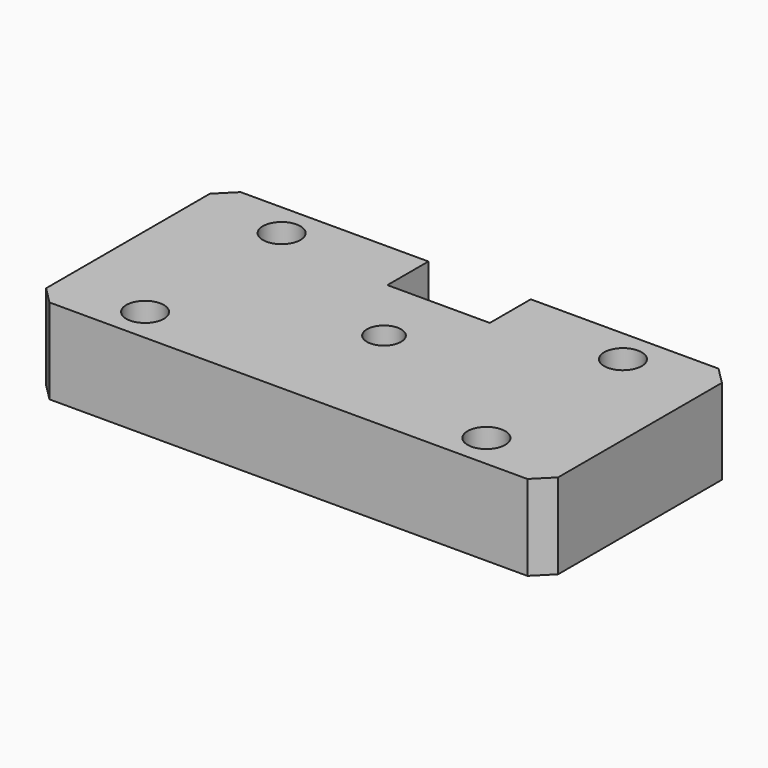
from build123d import *

# Parameters (mm, degrees)
F0_W           = 150
F0_H           = 70
F1_DEPTH       = 25
F3_D           = 11
F3_CBORE_D     = 17.25
F3_CBORE_DEPTH = 10
F4_SIZE        = 5
F5_SIZE        = 5
F6_W           = 30
F6_H           = 25
F7_DEPTH       = 25
F9_D           = 10


with BuildPart() as f1:
    # F0 (on Top) → F1 (new body)
    with BuildSketch(Plane.XY):
        Rectangle(F0_W, F0_H)
    extrude(amount=F1_DEPTH)

    # F3 (through all)
    with Locations(Plane(origin=(0, 0, 0), x_dir=(1, 0, 0), z_dir=(0, 0, -1))):
        with Locations((-50, -25), (-50, 25), (50, 25), (50, -25)):
            CounterBoreHole(F3_D / 2, F3_CBORE_D / 2, F3_CBORE_DEPTH)

    # F4
    f4_edges = [f1.edges().sort_by_distance(p)[0] for p in [
        (-75, 35, 12.5),
        (-75, -35, 12.5),
    ]]
    chamfer(f4_edges, length=F4_SIZE)

    # F5
    f5_edges = [f1.edges().sort_by_distance(p)[0] for p in [
        (75, 35, 12.5),
        (75, -35, 12.5),
    ]]
    chamfer(f5_edges, length=F5_SIZE)

    # F6 (on face) → F7 (cut)
    with BuildSketch(Plane(origin=(0, 0, 0), x_dir=(1, 0, 0), z_dir=(0, 0, -1))):
        with Locations((0, -32.5)):
            Rectangle(F6_W, F6_H)
    extrude(amount=-F7_DEPTH, mode=Mode.SUBTRACT)

    # F9 (through all)
    with Locations(Plane.XY.offset(25)):
        with Locations((0, 0)):
            Hole(F9_D / 2)


solid = f1.part
